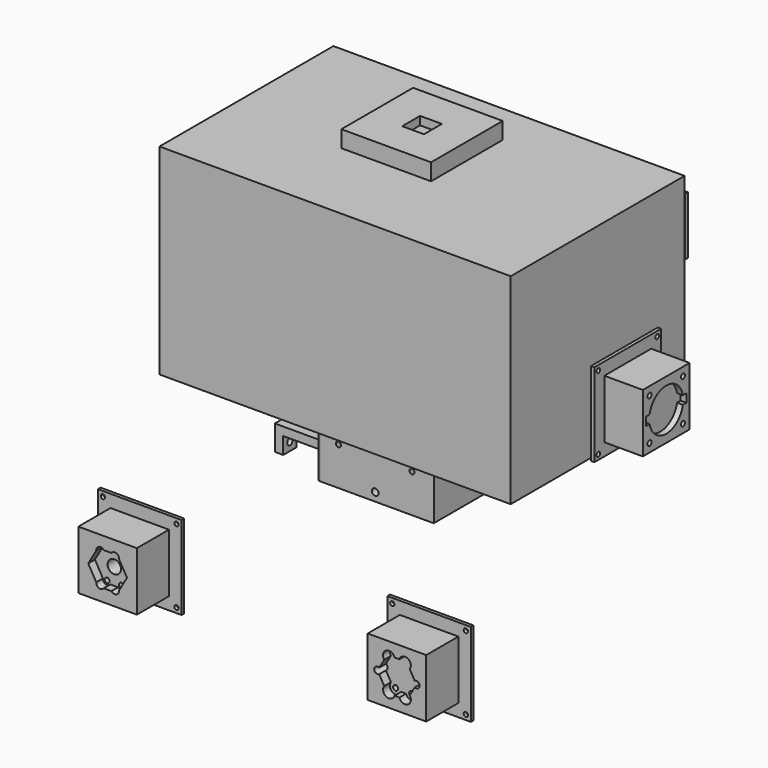
from build123d import *

# Parameters (mm, degrees)
SKETCH013_W             = 35
SKETCH013_H             = 35
PAD008_DEPTH            = 13
SKETCH014_R             = 10.5
POCKET004_DEPTH         = 8
SKETCH015_R             = 12.6
POCKET005_DEPTH         = 5
SKETCH021_W             = 50
SKETCH021_H             = 50
PAD010_DEPTH            = 2
SKETCH023_R             = 4.3
POCKET008_DEPTH         = 5.001
SKETCH024_R             = 1.2
POCKET009_DEPTH         = 145.792516
POLARPATTERN002_COUNT   = 4
SKETCH025_R             = 1.5
POCKET010_DEPTH         = 8
POLARPATTERN003_COUNT   = 4
SKETCH058_W             = 8
SKETCH058_H             = 5
POCKET030_DEPTH         = 2
SKETCH_W                = 31
SKETCH_H                = 5
POCKET_DEPTH            = 5
BODY004_PLACEMENT_ANGLE = 90
SKETCH027_W             = 34.6
SKETCH027_H             = 34.6
SKETCH027_R             = 10.5
PAD011_DEPTH            = 2
SKETCH090_R             = 1.2
POCKET050_DEPTH         = 5
POLARPATTERN_COUNT      = 4
BODY005_PLACEMENT_ANGLE = 90
SKETCH030_W             = 50
SKETCH030_H             = 50
SKETCH030_R             = 4
PAD012_DEPTH            = 2
SKETCH032_R             = 1.3
POCKET013_DEPTH         = 143.478913
POLARPATTERN006_COUNT   = 4
BODY006_PLACEMENT_ANGLE = 90
SKETCH130_W             = 53.6
SKETCH130_H             = 53.6
PAD046_DEPTH            = 5
SKETCH131_R             = 17
SKETCH131_R_2           = 12.25
POCKET074_DEPTH         = 5
SKETCH132_W             = 13.75
SKETCH132_H             = 13.75
POCKET075_DEPTH         = 10.001
SKETCH133_R             = 2
POCKET076_DEPTH         = 10
POLARPATTERN034_COUNT   = 4
SKETCH138_W             = 50
SKETCH138_H             = 50
PAD_DEPTH               = 2
SKETCH139_W             = 35
SKETCH139_H             = 35
PAD047_DEPTH            = 24
POCKET081_DEPTH         = 5
SKETCH141_R             = 2.5
POCKET082_DEPTH         = 5
SKETCH142_R             = 1.5
POCKET083_DEPTH         = 9
SKETCH143_R             = 4
POCKET084_DEPTH         = 21.001
SKETCH144_R             = 1.3
POCKET085_DEPTH         = 152.679466
POLARPATTERN038_COUNT   = 4
SKETCH146_W             = 35
SKETCH146_H             = 35
PAD048_DEPTH            = 25
SKETCH149_W             = 50
SKETCH149_H             = 50
PAD049_DEPTH            = 2
SKETCH151_R             = 1.3
POCKET090_DEPTH         = 152.001
POLARPATTERN039_COUNT   = 4
SKETCH152_R             = 1.5
POCKET091_DEPTH         = 8
POLARPATTERN040_COUNT   = 4
SKETCH153_W             = 30
SKETCH153_H             = 5
POCKET092_DEPTH         = 3.5
SKETCH154_R             = 12.7
POCKET093_DEPTH         = 3.5
BODY026_ROLL_ANGLE      = -90
BODY026_PLACEMENT_ANGLE = -90
SKETCH155_W             = 53.6
SKETCH155_H             = 53.6
PAD050_DEPTH            = 5
SKETCH157_W             = 13
SKETCH157_H             = 13.4
POCKET095_DEPTH         = 5
SKETCH163_W             = 70
SKETCH163_H             = 70
SKETCH163_W_2           = 54
SKETCH163_H_2           = 54
PAD052_DEPTH            = 35
SKETCH164_W             = 35.4
SKETCH164_H             = 35.4
POCKET100_DEPTH         = 8
POLARPATTERN044_COUNT   = 4
SKETCH165_R             = 2
POCKET101_DEPTH         = 10
POLARPATTERN045_COUNT   = 4
SKETCH166_R             = 1.5
POCKET102_DEPTH         = 5
POLARPATTERN046_COUNT   = 4
SKETCH167_R             = 2
POCKET103_DEPTH         = 5
FILLET004_R             = 2
SKETCH168_W             = 70
SKETCH168_H             = 70
SKETCH168_W_2           = 54
SKETCH168_H_2           = 54
PAD053_DEPTH            = 45
SKETCH169_W             = 35.4
SKETCH169_H             = 35.4
POCKET104_DEPTH         = 8
POLARPATTERN047_COUNT   = 4
SKETCH170_R             = 2
POCKET105_DEPTH         = 10
POLARPATTERN048_COUNT   = 4
SKETCH171_R             = 1.5
POCKET106_DEPTH         = 337.582763
POLARPATTERN049_COUNT   = 4
SKETCH172_R             = 2
POCKET107_DEPTH         = 5
FILLET005_R             = 2
SKETCH194_W             = 18
SKETCH194_H             = 18
SKETCH194_R             = 1.65
PAD063_DEPTH            = 10
POLARPATTERN051_COUNT   = 4
PAD054_DEPTH            = 10
SKETCH174_R             = 1.75
POCKET108_DEPTH         = 45.001
SKETCH176_R             = 2
POCKET110_DEPTH         = 5
SKETCH177_W             = 45
SKETCH177_H             = 45
SKETCH177_W_2           = 13.5
SKETCH177_H_2           = 13.5
SKETCH177_W_3           = 13.75
SKETCH177_H_3           = 13.75
SKETCH177_W_4           = 14
SKETCH177_H_4           = 14
SKETCH177_W_5           = 14.25
SKETCH177_H_5           = 14.25
PAD055_DEPTH            = 10
SKETCH178_W             = 50
SKETCH178_H             = 50
PAD056_DEPTH            = 2
SKETCH179_W             = 35
SKETCH179_H             = 35
PAD057_DEPTH            = 24
POCKET111_DEPTH         = 5
SKETCH181_R             = 3.5
POCKET112_DEPTH         = 5
SKETCH182_R             = 1.5
POCKET113_DEPTH         = 20
SKETCH184_R             = 1.3
POCKET115_DEPTH         = 152.679466
POLARPATTERN050_COUNT   = 4
SKETCH185_R             = 2
POCKET116_DEPTH         = 26.001
SKETCH186_W             = 210
SKETCH186_H             = 130
PAD058_DEPTH            = 120
SKETCH187_W             = 205
SKETCH187_H             = 125
POCKET117_DEPTH         = 115
SKETCH188_R             = 6
SKETCH188_R_2           = 2
PAD059_DEPTH            = 15
SKETCH189_R             = 5
SKETCH189_R_2           = 2
PAD060_DEPTH            = 15
SKETCH195_W             = 90
SKETCH195_H             = 90
SKETCH195_R             = 35
PAD064_DEPTH            = 35
SKETCH196_R             = 2
POCKET118_DEPTH         = 20


with BuildPart() as soporte_detector_d25:
    # Sketch013 → Pad008 (new body)
    with BuildSketch(Plane.XY):
        Rectangle(SKETCH013_W, SKETCH013_H)
    extrude(amount=PAD008_DEPTH)

    # Sketch014 (on Face6 of Pad008) → Pocket004 (cut)
    with BuildSketch(Plane.XY.offset(13)):
        Circle(SKETCH014_R)
    extrude(amount=-POCKET004_DEPTH, mode=Mode.SUBTRACT)

    # Sketch015 (on Face5 of Pocket004) → Pocket005 (cut)
    with BuildSketch(Plane.XY.offset(13)):
        Circle(SKETCH015_R)
    extrude(amount=-POCKET005_DEPTH, mode=Mode.SUBTRACT)

    # Sketch021 → Pad010 (join)
    with BuildSketch(Plane(origin=(0, 0, 0), x_dir=(1, 0, 0), z_dir=(0, 0, -1))):
        Rectangle(SKETCH021_W, SKETCH021_H)
    extrude(amount=-PAD010_DEPTH)

    # Sketch023 (on Face16 of Pad010) → Pocket008 (cut, through all)
    with BuildSketch(Plane.XY.offset(5)):
        Circle(SKETCH023_R)
    extrude(amount=-POCKET008_DEPTH, mode=Mode.SUBTRACT)

    # Sketch024 (on Face9 of Pocket008) → Pocket009 (cut, through all)
    with BuildSketch(Plane.XY.offset(2)):
        with Locations((-22, 22)):
            Circle(SKETCH024_R)
    pocket009 = extrude(amount=-POCKET009_DEPTH, mode=Mode.SUBTRACT)

    # PolarPattern002: Pocket009 ×4 about axis
    polarpattern002_axis = Axis((0, 0, 2), (0, 0, 1))
    for i in range(1, POLARPATTERN002_COUNT):
        add(pocket009.rotate(polarpattern002_axis, i * 360 / POLARPATTERN002_COUNT), mode=Mode.SUBTRACT)

    # Sketch025 (on Face20 of PolarPattern002) → Pocket010 (cut)
    with BuildSketch(Plane.XY.offset(13)):
        with Locations((-12, -12)):
            Circle(SKETCH025_R)
    pocket010 = extrude(amount=-POCKET010_DEPTH, mode=Mode.SUBTRACT)

    # PolarPattern003: Pocket010 ×4 about axis
    polarpattern003_axis = Axis((0, 0, 13), (0, 0, 1))
    for i in range(1, POLARPATTERN003_COUNT):
        add(pocket010.rotate(polarpattern003_axis, i * 360 / POLARPATTERN003_COUNT), mode=Mode.SUBTRACT)

    # Sketch058 → Pocket030 (cut)
    with BuildSketch(Plane(origin=(0, 0, 0), x_dir=(1, 0, 0), z_dir=(0, 0, -1))):
        with Locations((4, 0)):
            Rectangle(SKETCH058_W, SKETCH058_H)
    extrude(amount=-POCKET030_DEPTH, mode=Mode.SUBTRACT)

    # Sketch (on Face24 of Pocket030) → Pocket (cut)
    with BuildSketch(Plane.XY.offset(13)):
        Rectangle(SKETCH_W, SKETCH_H)
    extrude(amount=-POCKET_DEPTH, mode=Mode.SUBTRACT)


with BuildPart() as soporte_detector_d25_1:
    # Body004 placement: moved
    add(soporte_detector_d25.part.moved(Location((0, 140, 30))).rotate(Axis((0, 140, 30), (-1, 0, 0)), BODY004_PLACEMENT_ANGLE))


with BuildPart() as tapa_detector:
    # Sketch027 → Pad011 (new body)
    with BuildSketch(Plane.XY):
        Rectangle(SKETCH027_W, SKETCH027_H)
        Circle(SKETCH027_R, mode=Mode.SUBTRACT)
    extrude(amount=PAD011_DEPTH)

    # Sketch090 (on Face7 of Pad011) → Pocket050 (cut)
    with BuildSketch(Plane.XY.offset(2)):
        with Locations((-12, 12)):
            Circle(SKETCH090_R)
    pocket050 = extrude(amount=-POCKET050_DEPTH, mode=Mode.SUBTRACT)

    # PolarPattern: Pocket050 ×4 about axis
    polarpattern_axis = Axis((0, 0, 2), (0, 0, 1))
    for i in range(1, POLARPATTERN_COUNT):
        add(pocket050.rotate(polarpattern_axis, i * 360 / POLARPATTERN_COUNT), mode=Mode.SUBTRACT)


with BuildPart() as tapa_detector_1:
    # Body005 placement: moved
    add(tapa_detector.part.moved(Location((0, 175, 20))).rotate(Axis((0, 175, 20), (-1, 0, 0)), BODY005_PLACEMENT_ANGLE))


with BuildPart() as obj1:
    # Sketch030 → Pad012 (new body)
    with BuildSketch(Plane.XY):
        Rectangle(SKETCH030_W, SKETCH030_H)
        Circle(SKETCH030_R, mode=Mode.SUBTRACT)
    extrude(amount=PAD012_DEPTH)

    # Sketch032 (on Face7 of Pad012) → Pocket013 (cut, through all)
    with BuildSketch(Plane.XY.offset(2)):
        with Locations((-22, 22)):
            Circle(SKETCH032_R)
    pocket013 = extrude(amount=-POCKET013_DEPTH, mode=Mode.SUBTRACT)

    # PolarPattern006: Pocket013 ×4 about axis
    polarpattern006_axis = Axis((0, 0, 2), (0, 0, 1))
    for i in range(1, POLARPATTERN006_COUNT):
        add(pocket013.rotate(polarpattern006_axis, i * 360 / POLARPATTERN006_COUNT), mode=Mode.SUBTRACT)


with BuildPart() as obj1_1:
    # Body006 placement: moved
    add(obj1.part.moved(Location((0, 105, 30))).rotate(Axis((0, 105, 30), (-1, 0, 0)), BODY006_PLACEMENT_ANGLE))


with BuildPart() as tapa_nueva:
    # Sketch130 → Pad046 (new body, symmetric)
    with BuildSketch(Plane.XY):
        Rectangle(SKETCH130_W, SKETCH130_H)
    extrude(amount=PAD046_DEPTH, both=True)

    # Sketch131 (on Face6 of Pad046) → Pocket074 (cut)
    with BuildSketch(Plane.XY.offset(5)):
        Circle(SKETCH131_R)
        Circle(SKETCH131_R_2, mode=Mode.SUBTRACT)
    extrude(amount=-POCKET074_DEPTH, mode=Mode.SUBTRACT)

    # Sketch132 (on Face10 of Pocket074) → Pocket075 (cut, through all)
    with BuildSketch(Plane.XY.offset(5)):
        Rectangle(SKETCH132_W, SKETCH132_H)
    extrude(amount=-POCKET075_DEPTH, mode=Mode.SUBTRACT)

    # Sketch133 (on Face2 of Pocket075) → Pocket076 (cut)
    with BuildSketch(Plane.XZ.offset(26.8)):
        Circle(SKETCH133_R)
    pocket076 = extrude(amount=-POCKET076_DEPTH, mode=Mode.SUBTRACT)

    # PolarPattern034: Pocket076 ×4 about axis
    polarpattern034_axis = Axis((0, 0, 0), (0, 0, 1))
    for i in range(1, POLARPATTERN034_COUNT):
        add(pocket076.rotate(polarpattern034_axis, i * 360 / POLARPATTERN034_COUNT), mode=Mode.SUBTRACT)


with BuildPart() as tapa_nueva_1:
    # Body025 placement: moved
    add(tapa_nueva.part.moved(Location((0, 0, 42))))


with BuildPart() as obj2:
    # Sketch138 → Pad (new body)
    with BuildSketch(Plane.XZ):
        Rectangle(SKETCH138_W, SKETCH138_H)
    extrude(amount=PAD_DEPTH)

    # Sketch139 (on Face6 of Pad) → Pad047 (join)
    with BuildSketch(Plane.XZ.offset(2)):
        Rectangle(SKETCH139_W, SKETCH139_H)
    extrude(amount=PAD047_DEPTH)

    # Sketch140 (on Face11 of Pad047) → Pocket081 (cut)
    with BuildSketch(Plane.XZ.offset(26)):
        Polygon((5.8, 10.045895), (-5.8, 10.045895), (-11.6, 0), (-5.8, -10.045895), (5.8, -10.045895), (11.6, 0), align=None)
    extrude(amount=-POCKET081_DEPTH, mode=Mode.SUBTRACT)

    # Sketch141 (on Face11 of Pocket081) → Pocket082 (cut)
    with BuildSketch(Plane.XZ.offset(26)):
        with Locations((-4.3, 8.545895)):
            Circle(SKETCH141_R)
        with Locations((4.3, 8.545895)):
            Circle(SKETCH141_R)
        with Locations((-4.3, -8.545895)):
            Circle(SKETCH141_R)
        with Locations((4.3, -8.545895)):
            Circle(SKETCH141_R)
    extrude(amount=-POCKET082_DEPTH, mode=Mode.SUBTRACT)

    # Sketch142 (on Face27 of Pocket082) → Pocket083 (cut)
    with BuildSketch(Plane.XZ.offset(21)):
        with Locations((-4.3, 8.545895)):
            Circle(SKETCH142_R)
        with Locations((4.3, 8.545895)):
            Circle(SKETCH142_R)
        with Locations((-4.3, -8.545895)):
            Circle(SKETCH142_R)
        with Locations((4.3, -8.545895)):
            Circle(SKETCH142_R)
    extrude(amount=-POCKET083_DEPTH, mode=Mode.SUBTRACT)

    # Sketch143 (on Face24 of Pocket083) → Pocket084 (cut, through all)
    with BuildSketch(Plane.XZ.offset(21)):
        Circle(SKETCH143_R)
    extrude(amount=-POCKET084_DEPTH, mode=Mode.SUBTRACT)

    # Sketch144 (on Face5 of Pocket084) → Pocket085 (cut, through all)
    with BuildSketch(Plane.XZ.offset(2)):
        with Locations((-22, 22)):
            Circle(SKETCH144_R)
    pocket085 = extrude(amount=-POCKET085_DEPTH, mode=Mode.SUBTRACT)

    # PolarPattern038: Pocket085 ×4 about axis
    polarpattern038_axis = Axis((0, 0, 0), (0, 1, 0))
    for i in range(1, POLARPATTERN038_COUNT):
        add(pocket085.rotate(polarpattern038_axis, i * 360 / POLARPATTERN038_COUNT), mode=Mode.SUBTRACT)


with BuildPart() as obj2_1:
    # Body placement: moved
    add(obj2.part.moved(Location((0, -209, 0))))


with BuildPart() as obj3:
    # Sketch146 → Pad048 (new body)
    with BuildSketch(Plane.XY):
        Rectangle(SKETCH146_W, SKETCH146_H)
    extrude(amount=PAD048_DEPTH)

    # Sketch149 → Pad049 (join)
    with BuildSketch(Plane(origin=(0, 0, 0), x_dir=(1, 0, 0), z_dir=(0, 0, -1))):
        Rectangle(SKETCH149_W, SKETCH149_H)
    extrude(amount=-PAD049_DEPTH)

    # Sketch151 → Pocket090 (cut, through all)
    with BuildSketch(Plane.XY.offset(2)):
        with Locations((-22, 22)):
            Circle(SKETCH151_R)
    pocket090 = extrude(amount=-POCKET090_DEPTH, mode=Mode.SUBTRACT)

    # PolarPattern039: Pocket090 ×4 about axis
    polarpattern039_axis = Axis((0, 0, 2), (0, 0, 1))
    for i in range(1, POLARPATTERN039_COUNT):
        add(pocket090.rotate(polarpattern039_axis, i * 360 / POLARPATTERN039_COUNT), mode=Mode.SUBTRACT)

    # Sketch152 (on Face16 of PolarPattern039) → Pocket091 (cut)
    with BuildSketch(Plane.XY.offset(25)):
        with Locations((-12.5, 12.5)):
            Circle(SKETCH152_R)
    pocket091 = extrude(amount=-POCKET091_DEPTH, mode=Mode.SUBTRACT)

    # PolarPattern040: Pocket091 ×4 about axis
    polarpattern040_axis = Axis((0, 0, 0), (0, 0, 1))
    for i in range(1, POLARPATTERN040_COUNT):
        add(pocket091.rotate(polarpattern040_axis, i * 360 / POLARPATTERN040_COUNT), mode=Mode.SUBTRACT)

    # Sketch153 (on Face16 of PolarPattern040) → Pocket092 (cut)
    with BuildSketch(Plane.XY.offset(25)):
        Rectangle(SKETCH153_W, SKETCH153_H)
    extrude(amount=-POCKET092_DEPTH, mode=Mode.SUBTRACT)

    # Sketch154 (on Face16 of Pocket092) → Pocket093 (cut)
    with BuildSketch(Plane.XY.offset(25)):
        Circle(SKETCH154_R)
    extrude(amount=-POCKET093_DEPTH, mode=Mode.SUBTRACT)


with BuildPart() as obj3_1:
    # Body026 roll: moved
    add(obj3.part.rotate(Axis((0, 0, 0), (1, 0, 0)), BODY026_ROLL_ANGLE))


with BuildPart() as obj3_2:
    # Body026 placement: moved
    add(obj3_1.part.moved(Location((113, 10, 30))).rotate(Axis((113, 10, 30), (0, 0, 1)), BODY026_PLACEMENT_ANGLE))


with BuildPart() as obj4:
    # Sketch155 → Pad050 (new body, symmetric)
    with BuildSketch(Plane.XY):
        Rectangle(SKETCH155_W, SKETCH155_H)
    extrude(amount=PAD050_DEPTH, both=True)

    # Sketch157 → Pocket095 (cut)
    with BuildSketch(Plane.XY.offset(5)):
        Rectangle(SKETCH157_W, SKETCH157_H)
    extrude(amount=-POCKET095_DEPTH, mode=Mode.SUBTRACT)


with BuildPart() as obj4_1:
    # Body027 placement: moved
    add(obj4.part.moved(Location((0, 0, 134))))


with BuildPart() as base_h70:
    # Sketch163 → Pad052 (new body, symmetric)
    with BuildSketch(Plane.XY):
        Rectangle(SKETCH163_W, SKETCH163_H)
        Rectangle(SKETCH163_W_2, SKETCH163_H_2, mode=Mode.SUBTRACT)
    extrude(amount=PAD052_DEPTH, both=True)

    # Sketch164 (on Face2 of Pad052) → Pocket100 (cut)
    with BuildSketch(Plane(origin=(0, 35, 0), x_dir=(-1, 0, 0), z_dir=(0, 1, 0))):
        Rectangle(SKETCH164_W, SKETCH164_H)
    pocket100 = extrude(amount=-POCKET100_DEPTH, mode=Mode.SUBTRACT)

    # PolarPattern044: Pocket100 ×4 about axis
    polarpattern044_axis = Axis((0, 0, 0), (0, 0, 1))
    for i in range(1, POLARPATTERN044_COUNT):
        add(pocket100.rotate(polarpattern044_axis, i * 360 / POLARPATTERN044_COUNT), mode=Mode.SUBTRACT)

    # Sketch165 (on Face5 of PolarPattern044) → Pocket101 (cut)
    with BuildSketch(Plane(origin=(0, 35, 0), x_dir=(-1, 0, 0), z_dir=(0, 1, 0))):
        with Locations((0, 30)):
            Circle(SKETCH165_R)
        with Locations((0, -30)):
            Circle(SKETCH165_R)
    pocket101 = extrude(amount=-POCKET101_DEPTH, mode=Mode.SUBTRACT)

    # PolarPattern045: Pocket101 ×4 about axis
    polarpattern045_axis = Axis((0, 0, 0), (0, 0, 1))
    for i in range(1, POLARPATTERN045_COUNT):
        add(pocket101.rotate(polarpattern045_axis, i * 360 / POLARPATTERN045_COUNT), mode=Mode.SUBTRACT)

    # Sketch166 (on Face5 of PolarPattern045) → Pocket102 (cut)
    with BuildSketch(Plane(origin=(0, 35, 0), x_dir=(-1, 0, 0), z_dir=(0, 1, 0))):
        with Locations((-22, 22)):
            Circle(SKETCH166_R)
        with Locations((22, 22)):
            Circle(SKETCH166_R)
        with Locations((-22, -22)):
            Circle(SKETCH166_R)
        with Locations((22, -22)):
            Circle(SKETCH166_R)
    pocket102 = extrude(amount=-POCKET102_DEPTH, mode=Mode.SUBTRACT)

    # PolarPattern046: Pocket102 ×4 about axis
    polarpattern046_axis = Axis((0, 0, 0), (0, 0, 1))
    for i in range(1, POLARPATTERN046_COUNT):
        add(pocket102.rotate(polarpattern046_axis, i * 360 / POLARPATTERN046_COUNT), mode=Mode.SUBTRACT)

    # Sketch167 (on Face1 of PolarPattern046) → Pocket103 (cut)
    with BuildSketch(Plane(origin=(-35, 0, 0), x_dir=(0, -1, 0), z_dir=(-1, 0, 0))):
        with Locations((-30, 30)):
            Circle(SKETCH167_R)
        with Locations((-30, -30)):
            Circle(SKETCH167_R)
        with Locations((30, -30)):
            Circle(SKETCH167_R)
        with Locations((30, 30)):
            Circle(SKETCH167_R)
    extrude(amount=-POCKET103_DEPTH, mode=Mode.SUBTRACT)

    # Fillet004
    fillet004_edges = [base_h70.edges().sort_by_distance(p)[0] for p in [
        (-35, 35, 0),
        (-35, -35, 0),
        (35, -35, 0),
        (35, 35, 0),
    ]]
    fillet(fillet004_edges, radius=FILLET004_R)


with BuildPart() as base_h90:
    # Sketch168 → Pad053 (new body, symmetric)
    with BuildSketch(Plane.XY):
        Rectangle(SKETCH168_W, SKETCH168_H)
        Rectangle(SKETCH168_W_2, SKETCH168_H_2, mode=Mode.SUBTRACT)
    extrude(amount=PAD053_DEPTH, both=True)

    # Sketch169 (on Face2 of Pad053) → Pocket104 (cut)
    with BuildSketch(Plane(origin=(0, 35, 0), x_dir=(-1, 0, 0), z_dir=(0, 1, 0))):
        Rectangle(SKETCH169_W, SKETCH169_H)
    pocket104 = extrude(amount=-POCKET104_DEPTH, mode=Mode.SUBTRACT)

    # PolarPattern047: Pocket104 ×4 about axis
    polarpattern047_axis = Axis((0, 0, 0), (0, 0, 1))
    for i in range(1, POLARPATTERN047_COUNT):
        add(pocket104.rotate(polarpattern047_axis, i * 360 / POLARPATTERN047_COUNT), mode=Mode.SUBTRACT)

    # Sketch170 (on Face5 of PolarPattern047) → Pocket105 (cut)
    with BuildSketch(Plane(origin=(0, 35, 0), x_dir=(-1, 0, 0), z_dir=(0, 1, 0))):
        with Locations((0, 40)):
            Circle(SKETCH170_R)
        with Locations((0, -40)):
            Circle(SKETCH170_R)
    pocket105 = extrude(amount=-POCKET105_DEPTH, mode=Mode.SUBTRACT)

    # PolarPattern048: Pocket105 ×4 about axis
    polarpattern048_axis = Axis((0, 0, 0), (0, 0, 1))
    for i in range(1, POLARPATTERN048_COUNT):
        add(pocket105.rotate(polarpattern048_axis, i * 360 / POLARPATTERN048_COUNT), mode=Mode.SUBTRACT)

    # Sketch171 (on Face5 of PolarPattern048) → Pocket106 (cut, through all)
    with BuildSketch(Plane(origin=(0, 35, 0), x_dir=(-1, 0, 0), z_dir=(0, 1, 0))):
        with Locations((-22, 22)):
            Circle(SKETCH171_R)
        with Locations((22, 22)):
            Circle(SKETCH171_R)
        with Locations((-22, -22)):
            Circle(SKETCH171_R)
        with Locations((22, -22)):
            Circle(SKETCH171_R)
    pocket106 = extrude(amount=-POCKET106_DEPTH, mode=Mode.SUBTRACT)

    # PolarPattern049: Pocket106 ×4 about axis
    polarpattern049_axis = Axis((0, 0, 0), (0, 0, 1))
    for i in range(1, POLARPATTERN049_COUNT):
        add(pocket106.rotate(polarpattern049_axis, i * 360 / POLARPATTERN049_COUNT), mode=Mode.SUBTRACT)

    # Sketch172 (on Face1 of PolarPattern049) → Pocket107 (cut)
    with BuildSketch(Plane(origin=(-35, 0, 0), x_dir=(0, -1, 0), z_dir=(-1, 0, 0))):
        with Locations((-30, 30)):
            Circle(SKETCH172_R)
        with Locations((-30, -30)):
            Circle(SKETCH172_R)
        with Locations((30, -30)):
            Circle(SKETCH172_R)
        with Locations((30, 30)):
            Circle(SKETCH172_R)
    extrude(amount=-POCKET107_DEPTH, mode=Mode.SUBTRACT)

    # Fillet005
    fillet005_edges = [base_h90.edges().sort_by_distance(p)[0] for p in [
        (-35, 35, 0),
        (-35, -35, 0),
        (-35, 2, -40),
        (27, 0, -45),
    ]]
    fillet(fillet005_edges, radius=FILLET005_R)

    # Sketch194 (on Face5 of Fillet005) → Pad063 (join)
    with BuildSketch(Plane.XY.offset(45)):
        with Locations((-36, 36)):
            Rectangle(SKETCH194_W, SKETCH194_H)
        with Locations((-40, 40)):
            Circle(SKETCH194_R, mode=Mode.SUBTRACT)
    pad063 = extrude(amount=-PAD063_DEPTH)

    # PolarPattern051: Pad063 ×4 about axis
    polarpattern051_axis = Axis((0, 0, 0), (0, 0, 1))
    for i in range(1, POLARPATTERN051_COUNT):
        add(pad063.rotate(polarpattern051_axis, i * 360 / POLARPATTERN051_COUNT))


with BuildPart() as obj5:
    # Sketch173 → Pad054 (new body)
    with BuildSketch(Plane.XZ):
        Polygon((-35, -45), (-35, 45), (-75, 45), (-75, 55), (-80, 55), (-80, 40), (-45, 40), (-45, -40), (-80, -40), (-80, -55), (-75, -55), (-75, -45), align=None)
    extrude(amount=PAD054_DEPTH)

    # Sketch174 (on Face1 of Pad054) → Pocket108 (cut, through all)
    with BuildSketch(Plane(origin=(-35, 0, 0), x_dir=(0, 0, 1), z_dir=(1, 0, 0))):
        with Locations((-30, 5)):
            Circle(SKETCH174_R)
        with Locations((30, 5)):
            Circle(SKETCH174_R)
    extrude(amount=-POCKET108_DEPTH, mode=Mode.SUBTRACT)

    # Sketch176 → Pocket110 (cut)
    with BuildSketch(Plane(origin=(-75, 0, 0), x_dir=(0, 0, 1), z_dir=(1, 0, 0))):
        with Locations((-50, 5)):
            Circle(SKETCH176_R)
    pocket110 = extrude(amount=-POCKET110_DEPTH, mode=Mode.SUBTRACT)

    # Mirrored: Pocket110 across Sketch176 V_Axis
    add(pocket110.mirror(Plane(origin=(-75, 0, 0), x_dir=(1, 0, 0), z_dir=(0, 0, 1))), mode=Mode.SUBTRACT)


with BuildPart() as obj6:
    # Sketch177 → Pad055 (new body)
    with BuildSketch(Plane.XY):
        Rectangle(SKETCH177_W, SKETCH177_H)
        with Locations((-10.75, 10.75)):
            Rectangle(SKETCH177_W_2, SKETCH177_H_2, mode=Mode.SUBTRACT)
        with Locations((10.875, 10.875)):
            Rectangle(SKETCH177_W_3, SKETCH177_H_3, mode=Mode.SUBTRACT)
        with Locations((-11, -12)):
            Rectangle(SKETCH177_W_4, SKETCH177_H_4, mode=Mode.SUBTRACT)
        with Locations((11.125, -12.125)):
            Rectangle(SKETCH177_W_5, SKETCH177_H_5, mode=Mode.SUBTRACT)
    extrude(amount=PAD055_DEPTH)


with BuildPart() as obj7:
    # Sketch178 → Pad056 (new body)
    with BuildSketch(Plane.XZ):
        Rectangle(SKETCH178_W, SKETCH178_H)
    extrude(amount=PAD056_DEPTH)

    # Sketch179 (on Face6 of Pad056) → Pad057 (join)
    with BuildSketch(Plane.XZ.offset(2)):
        Rectangle(SKETCH179_W, SKETCH179_H)
    extrude(amount=PAD057_DEPTH)

    # Sketch180 (on Face11 of Pad057) → Pocket111 (cut)
    with BuildSketch(Plane.XZ.offset(26)):
        Polygon((5.8, 10.045895), (-5.8, 10.045895), (-11.6, 0), (-5.8, -10.045895), (5.8, -10.045895), (11.6, 0), align=None)
    extrude(amount=-POCKET111_DEPTH, mode=Mode.SUBTRACT)

    # Sketch181 (on Face11 of Pocket111) → Pocket112 (cut)
    with BuildSketch(Plane.XZ.offset(26)):
        with Locations((-4.8, 9.045895)):
            Circle(SKETCH181_R)
        with Locations((4.8, 9.045895)):
            Circle(SKETCH181_R)
        with Locations((-4.8, -9.045895)):
            Circle(SKETCH181_R)
        with Locations((4.8, -9.045895)):
            Circle(SKETCH181_R)
    extrude(amount=-POCKET112_DEPTH, mode=Mode.SUBTRACT)

    # Sketch182 (on Face27 of Pocket112) → Pocket113 (cut)
    with BuildSketch(Plane.XZ.offset(21)):
        with Locations((-4.8, 9.045895)):
            Circle(SKETCH182_R)
        with Locations((4.8, 9.045895)):
            Circle(SKETCH182_R)
        with Locations((-4.8, -9.045895)):
            Circle(SKETCH182_R)
        with Locations((4.8, -9.045895)):
            Circle(SKETCH182_R)
    extrude(amount=-POCKET113_DEPTH, mode=Mode.SUBTRACT)

    # Sketch184 → Pocket115 (cut, through all)
    with BuildSketch(Plane.XZ.offset(2)):
        with Locations((-22, 22)):
            Circle(SKETCH184_R)
    pocket115 = extrude(amount=-POCKET115_DEPTH, mode=Mode.SUBTRACT)

    # PolarPattern050: Pocket115 ×4 about axis
    polarpattern050_axis = Axis((0, 0, 0), (0, 1, 0))
    for i in range(1, POLARPATTERN050_COUNT):
        add(pocket115.rotate(polarpattern050_axis, i * 360 / POLARPATTERN050_COUNT), mode=Mode.SUBTRACT)

    # Sketch185 (on Face15 of PolarPattern050) → Pocket116 (cut, through all)
    with BuildSketch(Plane.XZ.offset(26)):
        with Locations((-11.6, 0)):
            Circle(SKETCH185_R)
        with Locations((11.6, 0)):
            Circle(SKETCH185_R)
    extrude(amount=-POCKET116_DEPTH, mode=Mode.SUBTRACT)


with BuildPart() as obj7_1:
    # Body033 placement: moved
    add(obj7.part.moved(Location((173, -209, 0))))


with BuildPart() as caja:
    # Sketch186 → Pad058 (new body)
    with BuildSketch(Plane.XY):
        Rectangle(SKETCH186_W, SKETCH186_H)
    extrude(amount=PAD058_DEPTH)

    # Sketch187 (on Face5 of Pad058) → Pocket117 (cut)
    with BuildSketch(Plane(origin=(0, 0, 0), x_dir=(1, 0, 0), z_dir=(0, 0, -1))):
        Rectangle(SKETCH187_W, SKETCH187_H)
    extrude(amount=-POCKET117_DEPTH, mode=Mode.SUBTRACT)

    # Sketch188 (on Face11 of Pocket117) → Pad059 (join)
    with BuildSketch(Plane(origin=(0, 0, 115), x_dir=(1, 0, 0), z_dir=(0, 0, -1))):
        with Locations((-87.5, 47.5)):
            Circle(SKETCH188_R)
        with Locations((-87.5, 47.5)):
            Circle(SKETCH188_R_2, mode=Mode.SUBTRACT)
        with Locations((-87.5, -1.5)):
            Circle(SKETCH188_R)
        with Locations((-87.5, -1.5)):
            Circle(SKETCH188_R_2, mode=Mode.SUBTRACT)
        with Locations((-29.5, 47.5)):
            Circle(SKETCH188_R)
        with Locations((-29.5, 47.5)):
            Circle(SKETCH188_R_2, mode=Mode.SUBTRACT)
        with Locations((-29.5, -1.5)):
            Circle(SKETCH188_R)
        with Locations((-29.5, -1.5)):
            Circle(SKETCH188_R_2, mode=Mode.SUBTRACT)
    extrude(amount=PAD059_DEPTH)

    # Sketch189 (on Face11 of Pad059) → Pad060 (join)
    with BuildSketch(Plane(origin=(0, 0, 115), x_dir=(1, 0, 0), z_dir=(0, 0, -1))):
        with Locations((-87.5, -26.5)):
            Circle(SKETCH189_R)
        with Locations((-87.5, -26.5)):
            Circle(SKETCH189_R_2, mode=Mode.SUBTRACT)
        with Locations((-87.5, -44.5)):
            Circle(SKETCH189_R)
        with Locations((-87.5, -44.5)):
            Circle(SKETCH189_R_2, mode=Mode.SUBTRACT)
    extrude(amount=PAD060_DEPTH)

    # Sketch195 (on Face11 of Pad060) → Pad064 (join)
    with BuildSketch(Plane(origin=(0, 0, 115), x_dir=(1, 0, 0), z_dir=(0, 0, -1))):
        with Locations((57.5, 17.5)):
            Rectangle(SKETCH195_W, SKETCH195_H)
        with Locations((57.5, 17.5)):
            Circle(SKETCH195_R, mode=Mode.SUBTRACT)
    extrude(amount=PAD064_DEPTH)

    # Sketch196 (on Face12 of Pad064) → Pocket118 (cut)
    with BuildSketch(Plane(origin=(0, 0, 80), x_dir=(1, 0, 0), z_dir=(0, 0, -1))):
        with Locations((17.5, 57.5)):
            Circle(SKETCH196_R)
        with Locations((97.5, 57.5)):
            Circle(SKETCH196_R)
        with Locations((17.5, -22.5)):
            Circle(SKETCH196_R)
        with Locations((97.5, -22.5)):
            Circle(SKETCH196_R)
    extrude(amount=-POCKET118_DEPTH, mode=Mode.SUBTRACT)


solid = Compound([soporte_detector_d25_1.part, tapa_detector_1.part, obj1_1.part, tapa_nueva_1.part, obj2_1.part, obj3_2.part, obj4_1.part, base_h70.part, base_h90.part, obj5.part, obj6.part, obj7_1.part, caja.part])
